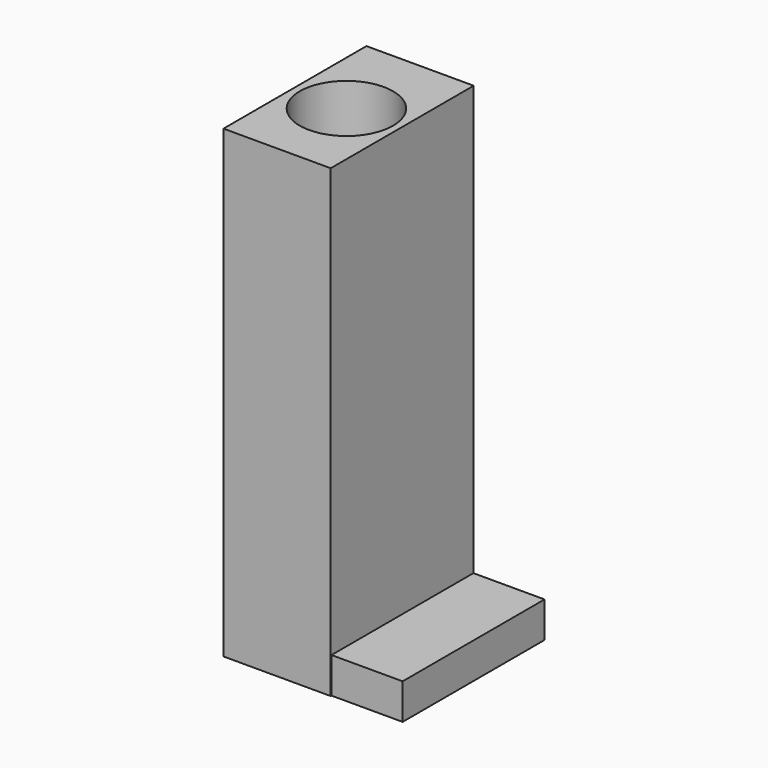
from build123d import *

# Parameters (mm, degrees)
F0_W     = 3
F0_H     = 5
F1_DEPTH = 13
F3_W     = 4.9623721501
F3_H     = 1
F4_DEPTH = 2
F5_R     = 1.3059904098
F6_DEPTH = 43.8


with BuildPart() as f1:
    # F0 (on Top) → F1 (new body)
    with BuildSketch(Plane.XY):
        with Locations((1.5, -0.3008348739)):
            Rectangle(F0_W, F0_H)
    extrude(amount=F1_DEPTH)

    # F5 (on Top) → F6 (cut)
    with BuildSketch(Plane.XY):
        with Locations((1.5019174898, -0.378929486)):
            Circle(F5_R)
    extrude(amount=F6_DEPTH, mode=Mode.SUBTRACT)


with BuildPart() as f4:
    # F3 (on offset) → F4 (new body)
    with BuildSketch(Plane.YZ.offset(2.99)):
        with Locations((-0.2925620512, 0.5)):
            Rectangle(F3_W, F3_H)
    extrude(amount=F4_DEPTH)


solid = Compound([f1.part, f4.part])
